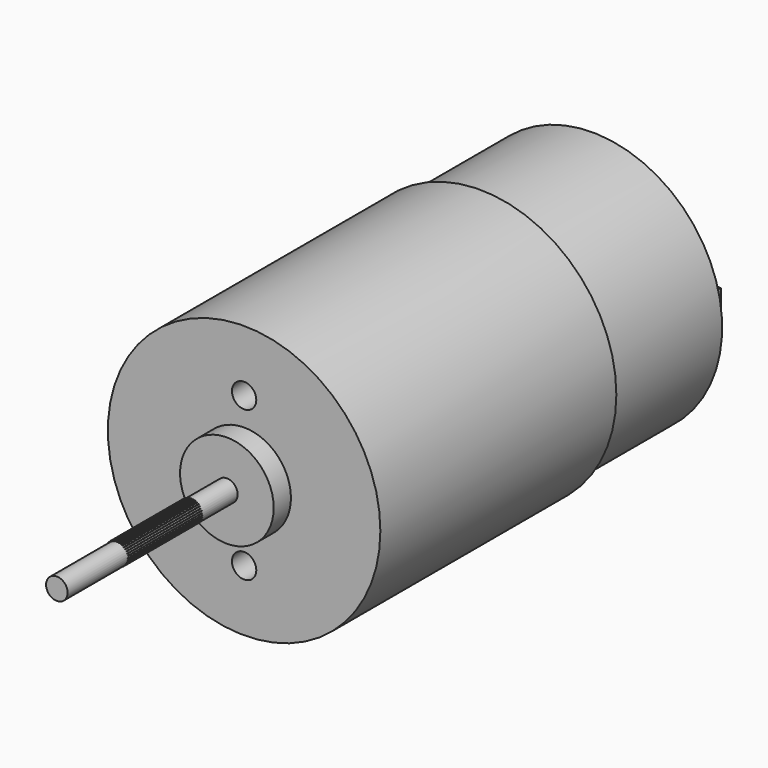
from build123d import *

# Parameters (mm, degrees)
F0_R      = 14.55
F1_DEPTH  = 31.5
F2_R      = 13.85
F3_DEPTH  = 15
F4_R      = 5
F5_DEPTH  = 2.3
F6_R      = 1.15
F7_DEPTH  = 22.7
F8_R      = 1.3
F9_DEPTH  = 5
F10_R     = 5
F11_DEPTH = 2.5
F12_W     = 0.5
F12_H     = 2
F13_DEPTH = 4
F16_DEPTH = 10


with BuildPart() as f1:
    # F0 (on Front) → F1 (new body)
    with BuildSketch(Plane.XZ):
        Circle(F0_R)
    extrude(amount=-F1_DEPTH)

    # F2 (on face) → F3 (join)
    with BuildSketch(Plane(origin=(0, 31.5, 0), x_dir=(-1, 0, 0), z_dir=(0, 1, 0))):
        Circle(F2_R)
    extrude(amount=F3_DEPTH)

    # F4 (on face) → F5 (join)
    with BuildSketch(Plane.XZ):
        Circle(F4_R)
    extrude(amount=F5_DEPTH)

    # F6 (on face) → F7 (join)
    with BuildSketch(Plane.XZ.offset(2.3)):
        Circle(F6_R)
    extrude(amount=F7_DEPTH)

    # F8 (on face) → F9 (cut)
    with BuildSketch(Plane.XZ):
        with Locations((0, 8)):
            Circle(F8_R)
        with Locations((0, -8)):
            Circle(F8_R)
    extrude(amount=-F9_DEPTH, mode=Mode.SUBTRACT)

    # F10 (on face) → F11 (join)
    with BuildSketch(Plane(origin=(0, 46.5, 0), x_dir=(-1, 0, 0), z_dir=(0, 1, 0))):
        Circle(F10_R)
    extrude(amount=F11_DEPTH)

    # F12 (on face) → F13 (join)
    with BuildSketch(Plane(origin=(0, 46.5, 0), x_dir=(-1, 0, 0), z_dir=(0, 1, 0))):
        with Locations((-10.25, 0)):
            Rectangle(F12_W, F12_H)
        with Locations((10.25, 0)):
            Rectangle(F12_W, F12_H)
    extrude(amount=F13_DEPTH)

    # F15 (on offset) → F16 (join)
    with BuildSketch(Plane.XZ.offset(7)):
        Polygon((0.15, 0.988686), (0.004988, 0.032877), (0.19347, 0.969916), (0.277389, 1.027876), (0.206972, 1.176383), (0.095135, 1.065977), align=None)
        Polygon((0.317998, 0.942232), (0.009215, 0.026125), (0.357549, 0.916199), (0.450257, 0.958705), (0.406698, 1.117184), (0.277389, 1.027876), align=None)
        Polygon((0.022556, 0.994326), (0.095135, 1.065977), (0, 1.2), (-0.090965, 1.071852), (-0.023513, 1.005262), (-0.000347, 0.038793), align=None)
        Polygon((0.59311, 1.024202), (0.450257, 0.958705), (0.475378, 0.86731), (0.012205, 0.018741), (0.509807, 0.834805), (0.608488, 0.860567), align=None)
        Polygon((-0.15, 0.988686), (-0.090965, 1.071852), (-0.207928, 1.187318), (-0.275259, 1.045321), (-0.197268, 0.991456), (-0.006629, 0.043692), align=None)
        Polygon((0.760543, 0.900263), (0.608488, 0.860567), (0.617356, 0.766199), (0.013868, 0.01095), (0.645618, 0.728209), (0.747273, 0.736444), align=None)
        Polygon((-0.318955, 0.953168), (-0.275259, 1.045321), (-0.410496, 1.138723), (-0.452146, 0.987191), (-0.365986, 0.947687), (-0.013666, 0.047427), align=None)
        Polygon((0.903912, 0.749132), (0.747273, 0.736444), (0.73962, 0.641969), (0.014152, 0.002989), (0.760855, 0.599649), (0.862396, 0.590106), align=None)
        Polygon((-0.524541, 0.875286), (-0.021244, 0.049882), (-0.479176, 0.88885), (-0.452146, 0.987191), (-0.601547, 1.055691), (-0.616251, 0.899228), align=None)
        Polygon((0.838454, 0.498396), (0.01305, -0.004901), (0.852018, 0.453031), (0.950359, 0.426001), (1.018859, 0.575402), (0.862396, 0.590106), align=None)
        Polygon((-0.668114, 0.776452), (-0.029134, 0.050985), (-0.625794, 0.797687), (-0.616251, 0.899228), (-0.775277, 0.940744), (-0.762589, 0.784105), align=None)
        Polygon((0.910855, 0.339841), (0.010595, -0.012479), (0.916335, 0.29281), (1.008489, 0.249114), (1.101891, 0.384351), (0.950359, 0.426001), align=None)
        Polygon((-0.792344, 0.654188), (-0.037095, 0.0507), (-0.754354, 0.68245), (-0.762589, 0.784105), (-0.926408, 0.797376), (-0.886712, 0.64532), align=None)
        Polygon((0.954624, 0.171123), (0.00686, -0.019516), (0.951854, 0.123855), (1.03502, 0.06482), (1.150486, 0.181783), (1.008489, 0.249114), align=None)
        Polygon((-0.893455, 0.51221), (-0.044886, 0.049037), (-0.86095, 0.546639), (-0.886712, 0.64532), (-1.050347, 0.629942), (-0.98485, 0.487089), align=None)
        Polygon((0.96843, -0.002632), (0.001961, -0.025798), (0.957494, -0.048701), (1.029145, -0.12128), (1.163168, -0.026145), (1.03502, 0.06482), align=None)
        Polygon((-0.968377, 0.35483), (-0.05227, 0.046047), (-0.942344, 0.394381), (-0.98485, 0.487089), (-1.143329, 0.44353), (-1.054021, 0.314221), align=None)
        Polygon((0.951854, -0.176145), (-0.003955, -0.031133), (0.933084, -0.219615), (0.991044, -0.303534), (1.13955, -0.233117), (1.029145, -0.12128), align=None)
        Polygon((-1.014831, 0.186832), (-0.059022, 0.04182), (-0.996062, 0.230302), (-1.054021, 0.314221), (-1.202528, 0.243804), (-1.092122, 0.131968), align=None)
        Polygon((0.9054, -0.344143), (-0.010707, -0.03536), (0.879367, -0.383694), (0.921873, -0.476402), (1.080352, -0.432843), (0.991044, -0.303534), align=None)
        Polygon((-1.031407, 0.013319), (-0.064938, 0.036485), (-1.020471, 0.059388), (-1.092122, 0.131968), (-1.226145, 0.036832), (-1.097997, -0.054133), align=None)
        Polygon((0.830478, -0.501523), (-0.018091, -0.03835), (0.797973, -0.535952), (0.823735, -0.634633), (0.98737, -0.619255), (0.921873, -0.476402), align=None)
        Polygon((-1.017601, -0.160436), (-0.069837, 0.030203), (-1.014831, -0.113168), (-1.097997, -0.054133), (-1.213463, -0.171096), (-1.071466, -0.238427), align=None)
        Polygon((0.729367, -0.643501), (-0.025882, -0.040013), (0.691377, -0.671763), (0.699612, -0.773418), (0.863431, -0.786688), (0.823735, -0.634633), align=None)
        Polygon((-0.973832, -0.329154), (-0.073572, 0.023166), (-0.979313, -0.282123), (-1.071466, -0.238427), (-1.164868, -0.373663), (-1.013336, -0.415314), align=None)
        Polygon((0.605137, -0.765765), (-0.033843, -0.040297), (0.562817, -0.787), (0.553274, -0.888541), (0.7123, -0.930057), (0.699612, -0.773418), align=None)
        Polygon((-0.901431, -0.487709), (-0.076027, 0.015588), (-0.914995, -0.442344), (-1.013336, -0.415314), (-1.081836, -0.564715), (-0.925373, -0.579419), align=None)
        Polygon((0.461563, -0.864599), (-0.041733, -0.039195), (0.416199, -0.878163), (0.389169, -0.976504), (0.53857, -1.045004), (0.553274, -0.888541), align=None)
        Polygon((-0.802597, -0.631282), (-0.07713, 0.007698), (-0.823832, -0.588962), (-0.925373, -0.579419), (-0.966889, -0.738445), (-0.81025, -0.725757), align=None)
        Polygon((0.303009, -0.937), (-0.049311, -0.03674), (0.255978, -0.94248), (0.212282, -1.034634), (0.347518, -1.128036), (0.389169, -0.976504), align=None)
        Polygon((-0.680334, -0.755512), (-0.076845, -0.000263), (-0.708595, -0.717522), (-0.81025, -0.725757), (-0.823521, -0.889576), (-0.671465, -0.84988), align=None)
        Polygon((0.134291, -0.980769), (-0.056348, -0.033005), (0.087023, -0.977999), (0.027988, -1.061165), (0.144951, -1.176631), (0.212282, -1.034634), align=None)
        Polygon((-0.538355, -0.856623), (-0.075182, -0.008054), (-0.572784, -0.824118), (-0.671465, -0.84988), (-0.656087, -1.013515), (-0.513234, -0.948018), align=None)
        Polygon((-0.039464, -0.994575), (-0.06263, -0.028106), (-0.085533, -0.983639), (-0.158113, -1.05529), (-0.062977, -1.189313), (0.027988, -1.061165), align=None)
        Polygon((-0.380976, -0.931545), (-0.072192, -0.015438), (-0.420526, -0.905512), (-0.513234, -0.948018), (-0.469675, -1.106497), (-0.340366, -1.017189), align=None)
        Polygon((-0.212977, -0.977999), (-0.067965, -0.02219), (-0.256447, -0.959229), (-0.340366, -1.017189), (-0.269949, -1.165696), (-0.158113, -1.05529), align=None)
    extrude(amount=F16_DEPTH)


solid = f1.part
